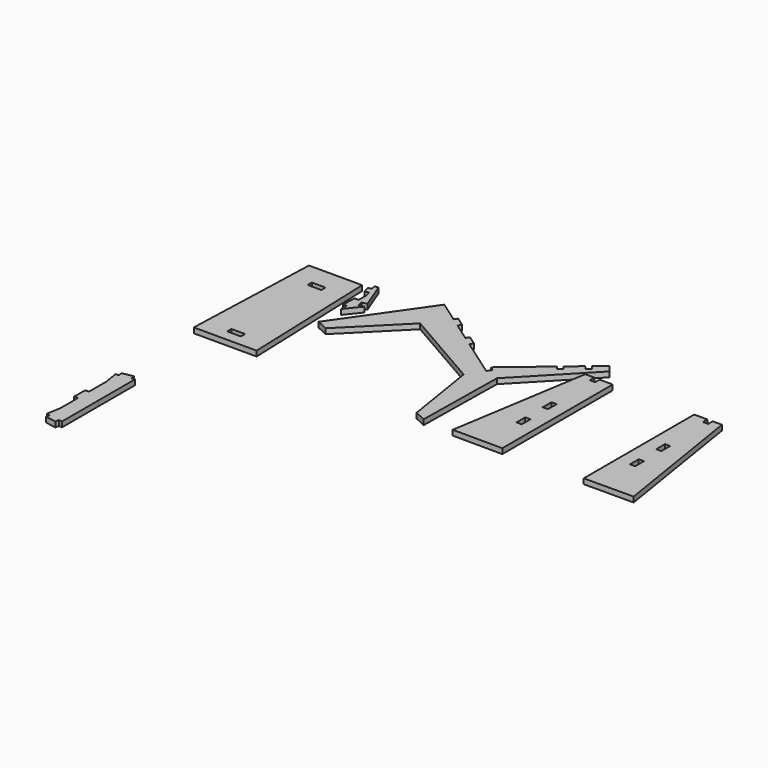
from build123d import *

# Parameters (mm, degrees)
F8_DEPTH  = 19.1
F5_W      = 50
F5_H      = 19.1
F9_DEPTH  = 19.1
F10_DEPTH = 5.1
F7_W      = 19.1
F7_H      = 40
F11_DEPTH = 19.1
F12_DEPTH = 19.1
F13_DEPTH = 19.1
F14_DEPTH = 19.1


with BuildPart() as f8:
    # F4 (on Top) → F8 (new body)
    with BuildSketch(Plane.XY):
        Polygon((-313.1266277774, 283.6644104903), (-327.1147646324, 284.2410020329), (-329.1741094881, 234.2834420546), (-315.1859736966, 233.7068247119), (-316.2156467329, 208.7280299609), (-273.3003869716, 262.2195143856), (-292.3363522535, 258.0239884914), (-296.4473277028, 276.6763309864), (-277.4113714695, 280.8718979359), (-315.9410263327, 380.0053418764), (-329.5787654228, 378.2274162112), (-324.8712113565, 362.4725983647), (-338.2852128724, 358.4644823715), (-331.2090634127, 334.7826628481), (-317.7950618968, 338.7907788413), (-311.6956915548, 318.3779556716), align=None)
    extrude(amount=F8_DEPTH)


with BuildPart() as f9:
    # F5 (on Top) → F9 (new body)
    with BuildSketch(Plane.XY):
        Polygon((-361.3780457647, 361.7061713082), (-556.1080685776, 361.7061713082), (-573.7430571711, -143.2938286987), (-343.7430571711, -143.2938286987), align=None)
        with Locations((-458.7430571711, -93.149946513)):
            Rectangle(F5_W, F5_H, mode=Mode.SUBTRACT)
        with Locations((-458.7430571711, 274.9561713082)):
            Rectangle(F5_W, F5_H, mode=Mode.SUBTRACT)
    extrude(amount=F9_DEPTH)

    # F5 (on Top) → F10 (join)
    with BuildSketch(Plane.XY):
        with Locations((-458.7430571711, 274.9561713082)):
            Rectangle(F5_W, F5_H)
        with Locations((-458.7430571711, -93.149946513)):
            Rectangle(F5_W, F5_H)
    extrude(amount=F10_DEPTH)


with BuildPart() as f11:
    # F7 (on Top) → F11 (new body)
    with BuildSketch(Plane.XY):
        Polygon((582.0035287882, -176.3063819392), (582.0035287882, 328.9861993314), (533.7929346044, 329.1903235698), (533.7059359161, 308.6427468278), (514.6061071153, 308.7236157337), (514.6931058036, 329.2711924758), (480.7467333972, 329.4149218268), (399.951019882, -175.5355694162), align=None)
        with Locations((523.362160485, -6.1262955917)):
            Rectangle(F7_W, F7_H, mode=Mode.SUBTRACT)
        with Locations((523.362160485, 113.9023802395)):
            Rectangle(F7_W, F7_H, mode=Mode.SUBTRACT)
    extrude(amount=F11_DEPTH)


with BuildPart() as f12:
    # F7 (on Top) → F12 (new body)
    with BuildSketch(Plane.XY):
        Polygon((947.4556556945, 308.7236157337), (928.3558268936, 308.6427468278), (928.2688282054, 329.1903235698), (880.0582340215, 328.9861993314), (880.0582340215, -176.3063819392), (1062.1107429277, -175.5355694162), (981.3150294126, 329.4149218268), (947.3686570062, 329.2711924758), align=None)
        with Locations((938.6996023248, -6.1262955917)):
            Rectangle(F7_W, F7_H, mode=Mode.SUBTRACT)
        with Locations((938.6996023248, 113.9023802395)):
            Rectangle(F7_W, F7_H, mode=Mode.SUBTRACT)
    extrude(amount=F12_DEPTH)


with BuildPart() as f13:
    # F6 (on Top) → F13 (new body)
    with BuildSketch(Plane.XY):
        Polygon((-102.6559747542, 414.2710963537), (-316.9997298591, 106.9301511755), (-276.1802506404, 87.988923224), (-84.3006384796, 280.5902925922), (210.4639827755, 111.1448463205), (253.5838772676, -157.834475293), (294.4033564863, -176.7757032445), (299.5322804337, 152.4799536751), (524.6525175935, 386.7178821382), (502.648378277, 412.8437198576), (464.4339913585, 380.6581607692), (475.0584816431, 368.0435474443), (460.4496238611, 355.7394312914), (449.8251335765, 368.3540446163), (402.5579608011, 328.5438970522), (413.1824510857, 315.9292837272), (398.5735933037, 303.6251675743), (387.9491030191, 316.2397808993), (243.4223633701, 194.5140567959), (258.1663649741, 184.1573221161), (247.1876840831, 168.5279086309), (228.3115703971, 181.7871924047), (105.6050950916, 267.9807809809), (113.6522957447, 279.4368955775), (80.9205397546, 302.4288974434), (72.8733391015, 290.9727828469), (7.4098271213, 336.9567865788), (15.4570277744, 348.4129011753), (-17.2747282158, 371.4049030412), (-25.3219288688, 359.9487884447), align=None)
    extrude(amount=F13_DEPTH)


with BuildPart() as f14:
    # F2 (on Top) → F14 (new body)
    with BuildSketch(Plane.XY):
        Polygon((-559.2167156932, -771.5370085048), (-568.0514116688, -822.4683943254), (-555.8391791674, -824.5890262445), (-558.2344093439, -838.3826070849), (-518.8241783712, -845.2261218748), (-516.4289481947, -831.4325410344), (-504.2167156934, -833.5531729535), (-504.216715693, -665.8273935318), (-504.2167156934, -498.1016141101), (-516.4289481947, -500.2222460292), (-518.8241783712, -486.4286651888), (-558.2344093439, -493.2721799787), (-555.8391791674, -507.0657608191), (-568.0514116688, -509.1863927382), (-559.2167156932, -560.1177785588), (-559.216715693, -640.8273935318), (-573.216715693, -640.8273935318), (-573.216715693, -665.8273935318), (-573.216715693, -690.8273935318), (-559.216715693, -690.8273935318), align=None)
    extrude(amount=F14_DEPTH)


solid = Compound([f8.part, f9.part, f11.part, f12.part, f13.part, f14.part])
